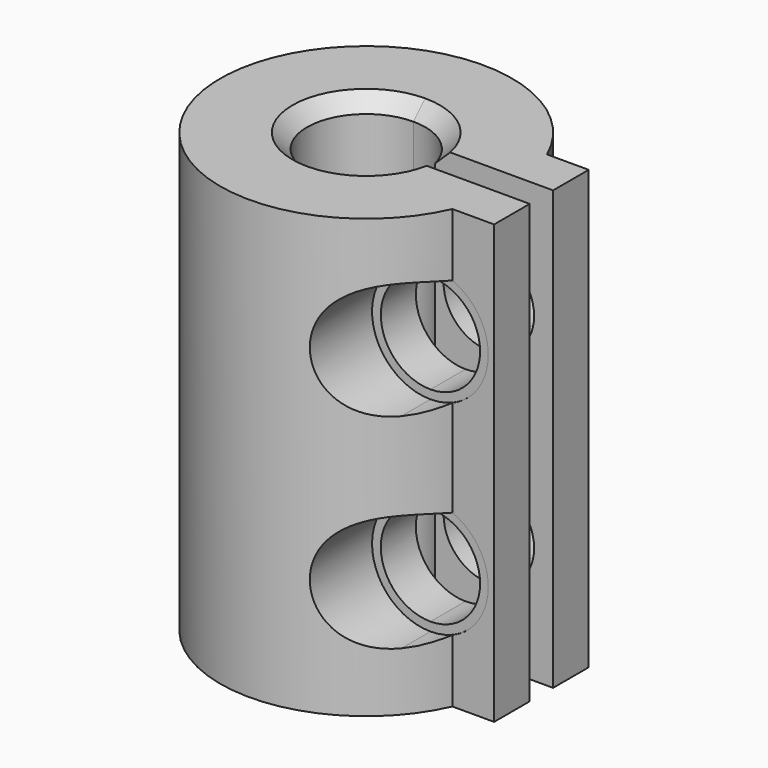
from build123d import *

# Parameters (mm, degrees)
F2_DEPTH = 15
F3_DEPTH = 5
F4_DEPTH = 5
F7_DEPTH = 3
F8_SIZE  = 0.5


with BuildPart() as f2:
    # F0 (on Top) → F2 (new body)
    with BuildSketch(Plane.XY):
        with BuildLine():
            ThreePointArc((0, -2.025), (-2.025, 0), (0, 2.025))
            Line((0, 2.025), (4.5715834237, 2.025))
            ThreePointArc((4.5715834237, 2.025), (-5, 0), (4.5715834237, -2.025))
            Line((4.5715834237, -2.025), (0, -2.025))
        make_face()
        with BuildLine():
            Line((4.5715834237, 2.025), (0, 2.025))
            ThreePointArc((0, 2.025), (1.2426031144, 1.5989254204), (1.9623009453, 0.5))
            Line((1.9623009453, 0.5), (4.9749371855, 0.5))
            ThreePointArc((4.9749371855, 0.5), (4.8337790791, 1.2785068691), (4.5715834237, 2.025))
        make_face()
        with BuildLine():
            ThreePointArc((1.9623009453, -0.5), (1.2426031144, -1.5989254204), (0, -2.025))
            Line((0, -2.025), (4.5715834237, -2.025))
            ThreePointArc((4.5715834237, -2.025), (4.8337790791, -1.2785068691), (4.9749371855, -0.5))
            Line((4.9749371855, -0.5), (1.9623009453, -0.5))
        make_face()
        with BuildLine():
            Line((6, 2.025), (4.5715834237, 2.025))
            ThreePointArc((4.5715834237, 2.025), (4.8337790791, 1.2785068691), (4.9749371855, 0.5))
            Line((4.9749371855, 0.5), (5.5474806577, 0.5))
            Line((5.5474806577, 0.5), (6, 0.5))
            Line((6, 0.5), (6, 2.025))
        make_face()
        with BuildLine():
            ThreePointArc((4.9749371855, -0.5), (4.8337790791, -1.2785068691), (4.5715834237, -2.025))
            Line((4.5715834237, -2.025), (6, -2.025))
            Line((6, -2.025), (6, -0.5))
            Line((6, -0.5), (5.5474806577, -0.5))
            Line((5.5474806577, -0.5), (4.9749371855, -0.5))
        make_face()
    extrude(amount=F2_DEPTH)

    # F1 (on Front) → F3 (cut)
    with BuildSketch(Plane.XZ):
        with BuildLine():
            ThreePointArc((5.35, 11), (2.7039844892, 12.0960155108), (3.8, 9.45))
            ThreePointArc((3.8, 9.45), (4.8960155108, 9.9039844892), (5.35, 11))
        make_face()
        with BuildLine():
            Line((3.8, 4), (3.8, 2.45))
            ThreePointArc((3.8, 2.45), (4.8960155108, 2.9039844892), (5.35, 4))
            ThreePointArc((5.35, 4), (4.8960155108, 5.0960155108), (3.8, 5.55))
            Line((3.8, 5.55), (3.8, 4))
        make_face()
        with BuildLine():
            ThreePointArc((3.8, 5.55), (2.25, 4), (3.8, 2.45))
            Line((3.8, 2.45), (3.8, 4))
            Line((3.8, 4), (3.8, 5.55))
        make_face()
    extrude(amount=-F3_DEPTH, mode=Mode.SUBTRACT)

    # F1 (on Front) → F4 (cut)
    with BuildSketch(Plane.XZ):
        with BuildLine():
            ThreePointArc((5.5, 11), (2.597918472, 12.202081528), (3.8, 9.3))
            ThreePointArc((3.8, 9.3), (5.002081528, 9.797918472), (5.5, 11))
        make_face()
        with BuildLine():
            ThreePointArc((5.35, 11), (4.8960155108, 9.9039844892), (3.8, 9.45))
            ThreePointArc((3.8, 9.45), (2.7039844892, 12.0960155108), (5.35, 11))
        make_face(mode=Mode.SUBTRACT)
        with BuildLine():
            ThreePointArc((5.35, 11), (2.7039844892, 12.0960155108), (3.8, 9.45))
            ThreePointArc((3.8, 9.45), (4.8960155108, 9.9039844892), (5.35, 11))
        make_face()
        with BuildLine():
            Line((3.8, 4), (3.8, 2.45))
            ThreePointArc((3.8, 2.45), (4.8960155108, 2.9039844892), (5.35, 4))
            ThreePointArc((5.35, 4), (4.8960155108, 5.0960155108), (3.8, 5.55))
            Line((3.8, 5.55), (3.8, 4))
        make_face()
        with BuildLine():
            ThreePointArc((3.8, 5.55), (2.25, 4), (3.8, 2.45))
            Line((3.8, 2.45), (3.8, 4))
            Line((3.8, 4), (3.8, 5.55))
        make_face()
        with BuildLine():
            Line((3.8, 2.45), (3.8, 2.3))
            ThreePointArc((3.8, 2.3), (5.002081528, 2.797918472), (5.5, 4))
            ThreePointArc((5.5, 4), (5.002081528, 5.202081528), (3.8, 5.7))
            Line((3.8, 5.7), (3.8, 5.55))
            ThreePointArc((3.8, 5.55), (4.8960155108, 5.0960155108), (5.35, 4))
            ThreePointArc((5.35, 4), (4.8960155108, 2.9039844892), (3.8, 2.45))
        make_face()
        with BuildLine():
            ThreePointArc((3.8, 5.7), (2.1, 4), (3.8, 2.3))
            Line((3.8, 2.3), (3.8, 2.45))
            ThreePointArc((3.8, 2.45), (2.25, 4), (3.8, 5.55))
            Line((3.8, 5.55), (3.8, 5.7))
        make_face()
    extrude(amount=F4_DEPTH, mode=Mode.SUBTRACT)

    # F6 (on offset) → F7 (cut)
    with BuildSketch(Plane.XZ.offset(5)):
        with BuildLine():
            ThreePointArc((5.8, 11), (2.3857864376, 12.4142135624), (3.8, 9))
            ThreePointArc((3.8, 9), (5.2142135624, 9.5857864376), (5.8, 11))
        make_face()
        with BuildLine():
            ThreePointArc((3.8, 6), (1.8, 4), (3.8, 2))
            Line((3.8, 2), (3.8, 4))
            Line((3.8, 4), (3.8, 6))
        make_face()
        with BuildLine():
            Line((3.8, 4), (3.8, 2))
            ThreePointArc((3.8, 2), (5.2142135624, 2.5857864376), (5.8, 4))
            ThreePointArc((5.8, 4), (5.2142135624, 5.4142135624), (3.8, 6))
            Line((3.8, 6), (3.8, 4))
        make_face()
    extrude(amount=-F7_DEPTH, mode=Mode.SUBTRACT)

    # F8
    f8_edges = [f2.edges().sort_by_distance(p)[0] for p in [
        (-2.025, 0, 15),
        (-2.025, 0, 0),
    ]]
    chamfer(f8_edges, length=F8_SIZE)


solid = f2.part
